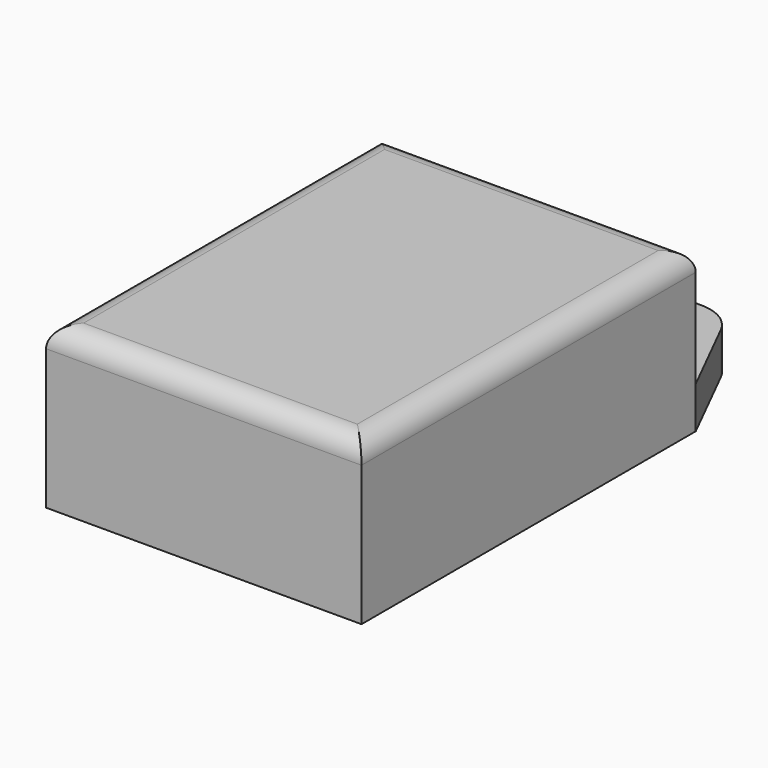
from build123d import *

# Parameters (mm, degrees)
F0_R     = 1.5
F1_DEPTH = 2
F0_W     = 15.1
F0_H     = 20
F2_DEPTH = 7.7
F3_R     = 1


with BuildPart() as f1:
    # F0 (on Top) → F1 (new body)
    with BuildSketch(Plane.XY):
        with BuildLine():
            Line((-7.55, 10), (7.55, 10))
            Line((7.55, 10), (5.552786, 13.994427))
            ThreePointArc((5.552786, 13.994427), (4.815394, 14.801302), (3.763932, 15.1))
            Line((3.763932, 15.1), (-3.763932, 15.1))
            ThreePointArc((-3.763932, 15.1), (-4.815394, 14.801302), (-5.552786, 13.994427))
            Line((-5.552786, 13.994427), (-7.55, 10))
        make_face()
        with Locations((0, 12)):
            Circle(F0_R, mode=Mode.SUBTRACT)
    extrude(amount=F1_DEPTH)

    # F0 (on Top) → F2 (join)
    with BuildSketch(Plane.XY):
        Rectangle(F0_W, F0_H)
    extrude(amount=F2_DEPTH)

    # F3
    f3_edges = [f1.edges().sort_by_distance(p)[0] for p in [
        (0, -10, 7.7),
        (7.55, 0, 7.7),
        (0, 10, 7.7),
        (-7.55, 0, 7.7),
    ]]
    fillet(f3_edges, radius=F3_R)


solid = f1.part
